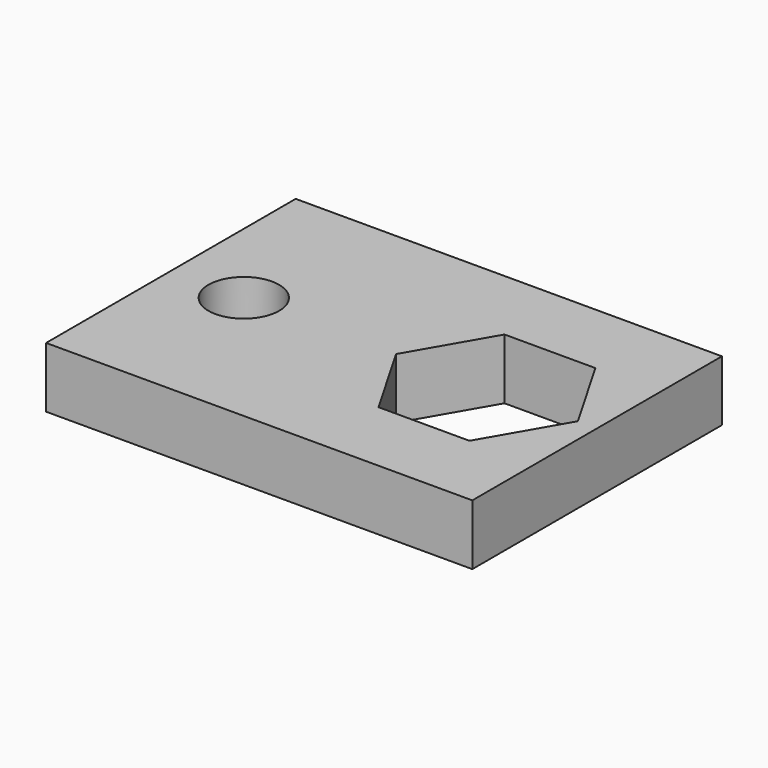
from build123d import *

# Parameters (mm, degrees)
F0_W     = 70.38045
F0_H     = 51.5172
F0_R     = 5.830174
F1_DEPTH = 5
F3_DEPTH = 25


with BuildPart() as f1:
    # F0 (on Top) → F1 (new body, symmetric)
    with BuildSketch(Plane.XY):
        Rectangle(F0_W, F0_H)
        with Locations((-23.153167, 0)):
            Circle(F0_R, mode=Mode.SUBTRACT)
    extrude(amount=F1_DEPTH, both=True)

    # F2 (on face) → F3 (cut)
    with BuildSketch(Plane.XY.offset(5)):
        Polygon((24.505121, 13), (9.494014, 13), (1.98846, 0), (9.494014, -13), (24.505121, -13), (32.010674, 0), align=None)
    extrude(amount=-F3_DEPTH, mode=Mode.SUBTRACT)


solid = f1.part
